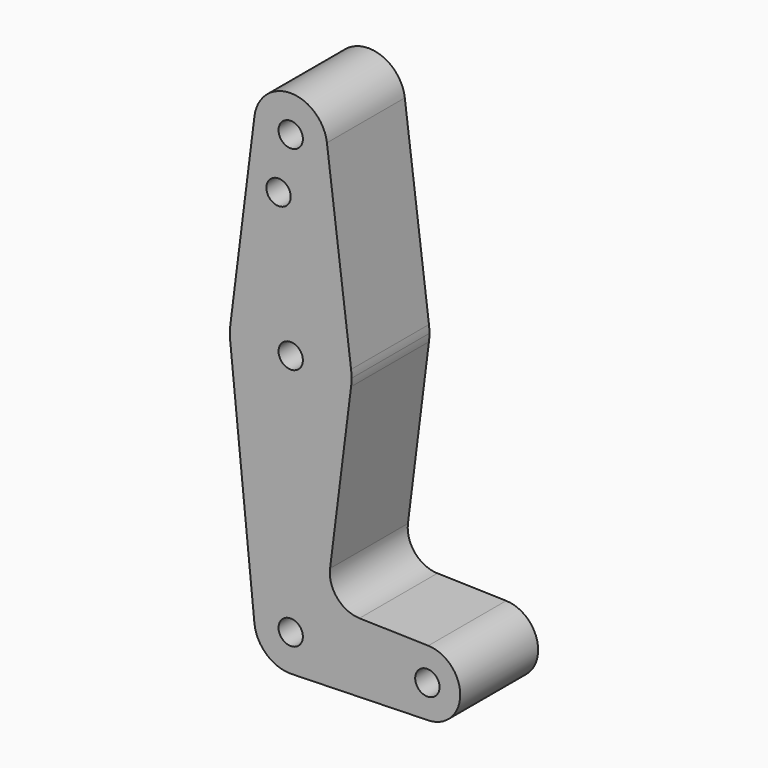
from build123d import *

# Parameters (mm, degrees)
F0_R     = 3.175
F1_DEPTH = 3.048
F2_DEPTH = 25.4
F3_DEPTH = 3.048


with BuildPart() as f1:
    # F0 (on Front) → F1 (new body)
    with BuildSketch(Plane.XZ):
        with BuildLine():
            ThreePointArc((-9.450293, 115.490625), (-0.596483, 104.793695), (9.525, 114.3))
            ThreePointArc((9.525, 114.3), (9.506305, 114.896483), (9.450293, 115.490625))
            ThreePointArc((9.450293, 115.490625), (0, 123.825), (-9.450293, 115.490625))
        make_face()
        with Locations((0, 114.3)):
            Circle(F0_R, mode=Mode.SUBTRACT)
        with BuildLine():
            ThreePointArc((9.450293, 115.490625), (9.506305, 114.896483), (9.525, 114.3))
            ThreePointArc((9.525, 114.3), (-0.596483, 104.793695), (-9.450293, 115.490625))
            Line((-9.450293, 115.490625), (-15.750488, 65.484375))
            ThreePointArc((-15.750488, 65.484375), (0, 79.375), (15.750488, 65.484375))
            Line((15.750488, 65.484375), (9.450293, 115.490625))
        make_face()
        with Locations((-3.175, 100.0252)):
            Circle(F0_R, mode=Mode.SUBTRACT)
        with BuildLine():
            ThreePointArc((15.875, 63.5), (15.843841, 64.494139), (15.750488, 65.484375))
            ThreePointArc((15.750488, 65.484375), (0, 79.375), (-15.750488, 65.484375))
            ThreePointArc((-15.750488, 65.484375), (-15.873744, 63.699705), (-15.795426, 61.9125))
            ThreePointArc((-15.795426, 61.9125), (-0.199705, 47.626256), (15.750488, 61.515625))
            ThreePointArc((15.750488, 61.515625), (15.843841, 62.505861), (15.875, 63.5))
        make_face()
        with Locations((0, 63.5)):
            Circle(F0_R, mode=Mode.SUBTRACT)
        with BuildLine():
            ThreePointArc((15.750488, 61.515625), (-0.199705, 47.626256), (-15.795426, 61.9125))
            Line((-15.795426, 61.9125), (-9.477255, -0.9525))
            ThreePointArc((-9.477255, -0.9525), (-7.063929, 6.389564), (0, 9.525))
            ThreePointArc((0, 9.525), (0.253535, 9.521625), (0.506891, 9.511503))
            ThreePointArc((0.506891, 9.511503), (6.912082, 6.553529), (9.525, 0))
            ThreePointArc((9.525, 0), (6.912082, -6.553529), (0.506891, -9.511503))
            Line((0.506891, -9.511503), (35.885598, -8.569463))
            ThreePointArc((35.885598, -8.569463), (27.084916, 0), (35.885598, 8.569463))
            Line((35.885598, 8.569463), (17.942799, 9.047231))
            ThreePointArc((17.942799, 9.047231), (12.122303, 11.815881), (10.266572, 17.988389))
            Line((10.266572, 17.988389), (15.750488, 61.515625))
        make_face()
        with BuildLine():
            ThreePointArc((0, 9.525), (-7.063929, 6.389564), (-9.477255, -0.9525))
            ThreePointArc((-9.477255, -0.9525), (-6.389564, -7.063929), (0, -9.525))
            Line((0, -9.525), (0.506891, -9.511503))
            ThreePointArc((0.506891, -9.511503), (6.912082, -6.553529), (9.525, 0))
            ThreePointArc((9.525, 0), (6.912082, 6.553529), (0.506891, 9.511503))
            Line((0.506891, 9.511503), (0, 9.525))
        make_face()
        Circle(F0_R, mode=Mode.SUBTRACT)
        with BuildLine():
            Line((0.506891, -9.511503), (0, -9.525))
            ThreePointArc((0, -9.525), (0.253535, -9.521625), (0.506891, -9.511503))
        make_face()
        with BuildLine():
            ThreePointArc((44.229916, 0), (41.799234, 5.980454), (35.885598, 8.569463))
            ThreePointArc((35.885598, 8.569463), (27.084916, 0), (35.885598, -8.569463))
            ThreePointArc((35.885598, -8.569463), (41.799234, -5.980454), (44.229916, 0))
        make_face()
        with Locations((35.657416, 0)):
            Circle(F0_R, mode=Mode.SUBTRACT)
    extrude(amount=F1_DEPTH)

    # F0 (on Front) → F2 (join)
    with BuildSketch(Plane.XZ):
        with BuildLine():
            ThreePointArc((-9.450293, 115.490625), (-0.596483, 104.793695), (9.525, 114.3))
            ThreePointArc((9.525, 114.3), (9.506305, 114.896483), (9.450293, 115.490625))
            ThreePointArc((9.450293, 115.490625), (0, 123.825), (-9.450293, 115.490625))
        make_face()
        with Locations((0, 114.3)):
            Circle(F0_R, mode=Mode.SUBTRACT)
        with BuildLine():
            ThreePointArc((9.450293, 115.490625), (9.506305, 114.896483), (9.525, 114.3))
            ThreePointArc((9.525, 114.3), (-0.596483, 104.793695), (-9.450293, 115.490625))
            Line((-9.450293, 115.490625), (-15.750488, 65.484375))
            ThreePointArc((-15.750488, 65.484375), (0, 79.375), (15.750488, 65.484375))
            Line((15.750488, 65.484375), (9.450293, 115.490625))
        make_face()
        with Locations((-3.175, 100.0252)):
            Circle(F0_R, mode=Mode.SUBTRACT)
        with BuildLine():
            ThreePointArc((15.875, 63.5), (15.843841, 64.494139), (15.750488, 65.484375))
            ThreePointArc((15.750488, 65.484375), (0, 79.375), (-15.750488, 65.484375))
            ThreePointArc((-15.750488, 65.484375), (-15.873744, 63.699705), (-15.795426, 61.9125))
            ThreePointArc((-15.795426, 61.9125), (-0.199705, 47.626256), (15.750488, 61.515625))
            ThreePointArc((15.750488, 61.515625), (15.843841, 62.505861), (15.875, 63.5))
        make_face()
        with Locations((0, 63.5)):
            Circle(F0_R, mode=Mode.SUBTRACT)
        with BuildLine():
            ThreePointArc((15.750488, 61.515625), (-0.199705, 47.626256), (-15.795426, 61.9125))
            Line((-15.795426, 61.9125), (-9.477255, -0.9525))
            ThreePointArc((-9.477255, -0.9525), (-7.063929, 6.389564), (0, 9.525))
            ThreePointArc((0, 9.525), (0.253535, 9.521625), (0.506891, 9.511503))
            ThreePointArc((0.506891, 9.511503), (6.912082, 6.553529), (9.525, 0))
            ThreePointArc((9.525, 0), (6.912082, -6.553529), (0.506891, -9.511503))
            Line((0.506891, -9.511503), (35.885598, -8.569463))
            ThreePointArc((35.885598, -8.569463), (27.084916, 0), (35.885598, 8.569463))
            Line((35.885598, 8.569463), (17.942799, 9.047231))
            ThreePointArc((17.942799, 9.047231), (12.122303, 11.815881), (10.266572, 17.988389))
            Line((10.266572, 17.988389), (15.750488, 61.515625))
        make_face()
        with BuildLine():
            ThreePointArc((0, 9.525), (-7.063929, 6.389564), (-9.477255, -0.9525))
            ThreePointArc((-9.477255, -0.9525), (-6.389564, -7.063929), (0, -9.525))
            Line((0, -9.525), (0.506891, -9.511503))
            ThreePointArc((0.506891, -9.511503), (6.912082, -6.553529), (9.525, 0))
            ThreePointArc((9.525, 0), (6.912082, 6.553529), (0.506891, 9.511503))
            Line((0.506891, 9.511503), (0, 9.525))
        make_face()
        Circle(F0_R, mode=Mode.SUBTRACT)
        with BuildLine():
            Line((0.506891, -9.511503), (0, -9.525))
            ThreePointArc((0, -9.525), (0.253535, -9.521625), (0.506891, -9.511503))
        make_face()
        with BuildLine():
            ThreePointArc((44.229916, 0), (41.799234, 5.980454), (35.885598, 8.569463))
            ThreePointArc((35.885598, 8.569463), (27.084916, 0), (35.885598, -8.569463))
            ThreePointArc((35.885598, -8.569463), (41.799234, -5.980454), (44.229916, 0))
        make_face()
        with Locations((35.657416, 0)):
            Circle(F0_R, mode=Mode.SUBTRACT)
    extrude(amount=F2_DEPTH)

    # F0 (on Front) → F3 (join)
    with BuildSketch(Plane.XZ):
        with BuildLine():
            ThreePointArc((-9.450293, 115.490625), (-0.596483, 104.793695), (9.525, 114.3))
            ThreePointArc((9.525, 114.3), (9.506305, 114.896483), (9.450293, 115.490625))
            ThreePointArc((9.450293, 115.490625), (0, 123.825), (-9.450293, 115.490625))
        make_face()
        with Locations((0, 114.3)):
            Circle(F0_R, mode=Mode.SUBTRACT)
        with BuildLine():
            ThreePointArc((9.450293, 115.490625), (9.506305, 114.896483), (9.525, 114.3))
            ThreePointArc((9.525, 114.3), (-0.596483, 104.793695), (-9.450293, 115.490625))
            Line((-9.450293, 115.490625), (-15.750488, 65.484375))
            ThreePointArc((-15.750488, 65.484375), (0, 79.375), (15.750488, 65.484375))
            Line((15.750488, 65.484375), (9.450293, 115.490625))
        make_face()
        with Locations((-3.175, 100.0252)):
            Circle(F0_R, mode=Mode.SUBTRACT)
        with BuildLine():
            ThreePointArc((15.875, 63.5), (15.843841, 64.494139), (15.750488, 65.484375))
            ThreePointArc((15.750488, 65.484375), (0, 79.375), (-15.750488, 65.484375))
            ThreePointArc((-15.750488, 65.484375), (-15.873744, 63.699705), (-15.795426, 61.9125))
            ThreePointArc((-15.795426, 61.9125), (-0.199705, 47.626256), (15.750488, 61.515625))
            ThreePointArc((15.750488, 61.515625), (15.843841, 62.505861), (15.875, 63.5))
        make_face()
        with Locations((0, 63.5)):
            Circle(F0_R, mode=Mode.SUBTRACT)
        with BuildLine():
            ThreePointArc((15.750488, 61.515625), (-0.199705, 47.626256), (-15.795426, 61.9125))
            Line((-15.795426, 61.9125), (-9.477255, -0.9525))
            ThreePointArc((-9.477255, -0.9525), (-7.063929, 6.389564), (0, 9.525))
            ThreePointArc((0, 9.525), (0.253535, 9.521625), (0.506891, 9.511503))
            ThreePointArc((0.506891, 9.511503), (6.912082, 6.553529), (9.525, 0))
            ThreePointArc((9.525, 0), (6.912082, -6.553529), (0.506891, -9.511503))
            Line((0.506891, -9.511503), (35.885598, -8.569463))
            ThreePointArc((35.885598, -8.569463), (27.084916, 0), (35.885598, 8.569463))
            Line((35.885598, 8.569463), (17.942799, 9.047231))
            ThreePointArc((17.942799, 9.047231), (12.122303, 11.815881), (10.266572, 17.988389))
            Line((10.266572, 17.988389), (15.750488, 61.515625))
        make_face()
        with BuildLine():
            ThreePointArc((0, 9.525), (-7.063929, 6.389564), (-9.477255, -0.9525))
            ThreePointArc((-9.477255, -0.9525), (-6.389564, -7.063929), (0, -9.525))
            Line((0, -9.525), (0.506891, -9.511503))
            ThreePointArc((0.506891, -9.511503), (6.912082, -6.553529), (9.525, 0))
            ThreePointArc((9.525, 0), (6.912082, 6.553529), (0.506891, 9.511503))
            Line((0.506891, 9.511503), (0, 9.525))
        make_face()
        Circle(F0_R, mode=Mode.SUBTRACT)
        with BuildLine():
            Line((0.506891, -9.511503), (0, -9.525))
            ThreePointArc((0, -9.525), (0.253535, -9.521625), (0.506891, -9.511503))
        make_face()
        with BuildLine():
            ThreePointArc((44.229916, 0), (41.799234, 5.980454), (35.885598, 8.569463))
            ThreePointArc((35.885598, 8.569463), (27.084916, 0), (35.885598, -8.569463))
            ThreePointArc((35.885598, -8.569463), (41.799234, -5.980454), (44.229916, 0))
        make_face()
        with Locations((35.657416, 0)):
            Circle(F0_R, mode=Mode.SUBTRACT)
    extrude(amount=F3_DEPTH)


solid = f1.part
